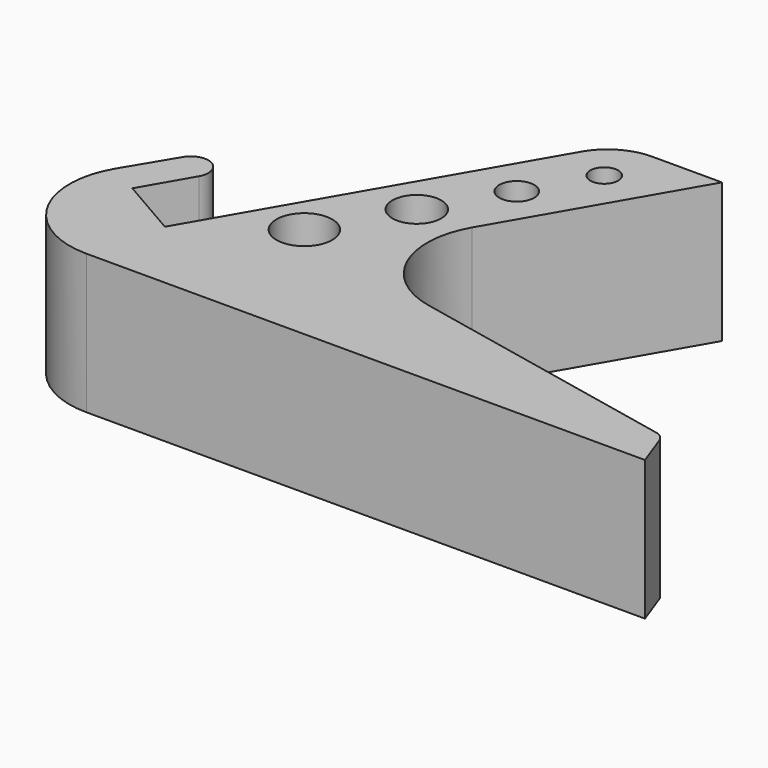
from build123d import *

# Parameters (mm, degrees)
F0_R     = 5.08
F0_R_2   = 4.445
F0_R_3   = 3.175
F0_R_4   = 2.54
F1_DEPTH = 25.4


with BuildPart() as f1:
    # F0 (on Top) → F1 (new body)
    with BuildSketch(Plane.XY):
        with BuildLine():
            ThreePointArc((-69.865314, 23.078194), (-70.056555, 7.72989), (-56.79549, 0))
            Line((-56.79549, 0), (44.80451, 0))
            Line((44.80451, 0), (42.632682, 5.967048))
            ThreePointArc((42.632682, 5.967048), (41.908659, 7.018398), (40.764646, 7.584773))
            Line((40.764646, 7.584773), (-8.964474, 17.960444))
            ThreePointArc((-8.964474, 17.960444), (-19.762569, 26.654444), (-19.05, 40.499181))
            Line((-19.05, 40.499181), (0, 73.494748))
            Line((0, 73.494748), (-12.7, 73.494748))
            ThreePointArc((-12.7, 73.494748), (-17.78, 72.133567), (-21.498818, 68.414748))
            Line((-21.498818, 68.414748), (-53.248818, 13.422135))
            Line((-53.248818, 13.422135), (-64.247341, 19.772135))
            Line((-64.247341, 19.772135), (-59.167341, 28.570953))
            ThreePointArc((-59.167341, 28.570953), (-60.306687, 32.894803), (-64.639851, 31.791411))
            Line((-64.639851, 31.791411), (-69.865314, 23.078194))
        make_face()
        with Locations((-37.222939, 25.101249)):
            Circle(F0_R, mode=Mode.SUBTRACT)
        with Locations((-28.650439, 39.949254)):
            Circle(F0_R_2, mode=Mode.SUBTRACT)
        with Locations((-21.030439, 53.147482)):
            Circle(F0_R_3, mode=Mode.SUBTRACT)
        with Locations((-14.362939, 64.69593)):
            Circle(F0_R_4, mode=Mode.SUBTRACT)
    extrude(amount=F1_DEPTH)


solid = f1.part
